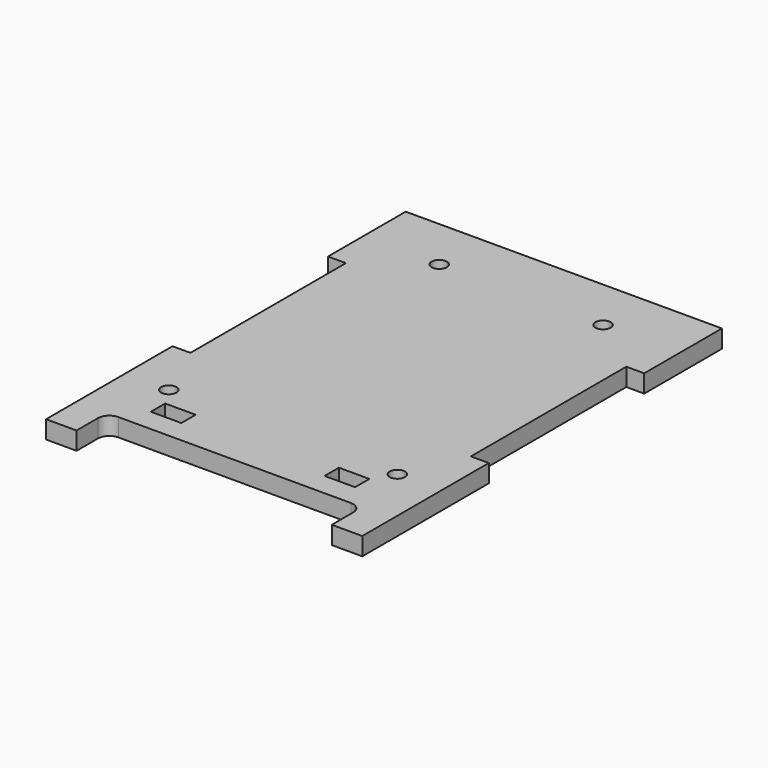
from build123d import *

# Parameters (mm, degrees)
SKETCH014_W             = 8
SKETCH014_H             = 4.7
PAD010_DEPTH            = 4.7
FILLET003_R             = 3
SKETCH019_R             = 2
POCKET001_DEPTH         = 293.388305
BODY016_ROLL_ANGLE      = 90
BODY016_PLACEMENT_ANGLE = 180


with BuildPart() as part:
    # Sketch014 → Pad010 (new body)
    with BuildSketch(Plane.XZ):
        Polygon((-41.5, -51), (-41.5, -25.5), (-36.8, -25.5), (-36.8, 25.5), (-41.5, 25.5), (-41.5, 51), (41.5, 51), (41.5, 25.5), (36.8, 25.5), (36.8, -25.5), (41.5, -25.5), (41.5, -51), (41.5, -67), (33.5, -67), (33.5, -57), (-33.5, -57), (-33.5, -67), (-41.5, -67), align=None)
        with Locations((-22.8, -48.65)):
            Rectangle(SKETCH014_W, SKETCH014_H, mode=Mode.SUBTRACT)
        with Locations((22.8, -48.65)):
            Rectangle(SKETCH014_W, SKETCH014_H, mode=Mode.SUBTRACT)
    extrude(amount=PAD010_DEPTH)

    # Fillet003
    fillet003_edges = [part.edges().sort_by_distance(p)[0] for p in [
        (-33.5, -2.35, -57),
        (33.5, -2.35, -57),
    ]]
    fillet(fillet003_edges, radius=FILLET003_R)

    # Sketch019 (on Face2 of Fillet003) → Pocket001 (cut, through all)
    with BuildSketch(Plane(origin=(0, 0, 0), x_dir=(1, 0, 0), z_dir=(0, 1, 0))):
        with Locations((-21.5, -37)):
            Circle(SKETCH019_R)
        with Locations((-30, 41.1)):
            Circle(SKETCH019_R)
    pocket001 = extrude(amount=-POCKET001_DEPTH, mode=Mode.SUBTRACT)

    # Mirrored: Pocket001 across Sketch019 V_Axis
    add(pocket001.mirror(Plane.YZ), mode=Mode.SUBTRACT)


with BuildPart() as part_1:
    # Body010 placement: moved
    add(part.part.moved(Location((0, 41.5, 48))))


with BuildPart() as part_2:
    # Clone003 placement: moved
    add(part_1.part.moved(Location((0, -41.5, -48))))


with BuildPart() as part_3:
    # Body016 roll: moved
    add(part_2.part.rotate(Axis((0, 0, 0), (1, 0, 0)), BODY016_ROLL_ANGLE))


with BuildPart() as part_4:
    # Body016 placement: moved
    add(part_3.part.moved(Location((357, 0, 0))).rotate(Axis((357, 0, 0), (0, 0, 1)), BODY016_PLACEMENT_ANGLE))


solid = part_4.part
